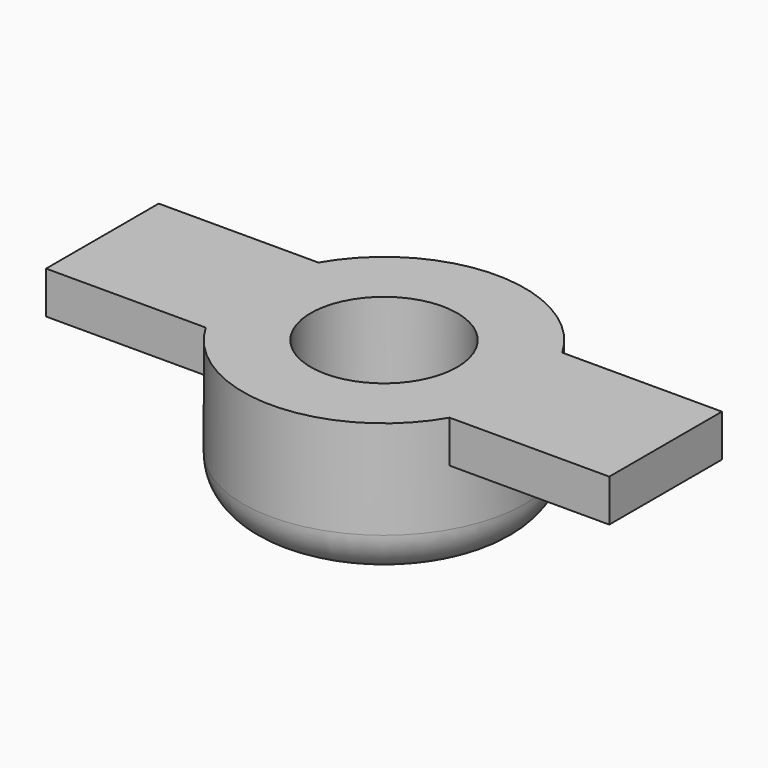
from build123d import *

# Parameters (mm, degrees)
CONE001_W         = 10
CONE001_H         = 10
FILLET002_R       = 3
BOX007_W          = 10.4
BOX007_H          = 5.2
BOX007_DEPTH      = 5.2
BOX008_W          = 40
BOX008_H          = 10
BOX008_DEPTH      = 3
CYLINDER011_R     = 5.2
CYLINDER011_DEPTH = 10


with BuildPart() as part:
    # Cone001 → Cone001 (revolve)
    with BuildSketch(Plane.XZ):
        with Locations((5, 5)):
            Rectangle(CONE001_W, CONE001_H)
    revolve(axis=Axis((0, 0, 0), (0, 0, 1)))

    # Fillet002
    fillet002_edges = [part.edges().sort_by_distance(p)[0] for p in [
        (-10, 0, 0),
    ]]
    fillet(fillet002_edges, radius=FILLET002_R)

    # Box007 → Box007 (cut)
    with BuildSketch(Plane(origin=(-5.2, -5.2, 0), x_dir=(1, 0, 0), z_dir=(0, 0, 1))):
        with Locations((5.2, 2.6)):
            Rectangle(BOX007_W, BOX007_H)
    extrude(amount=BOX007_DEPTH, mode=Mode.SUBTRACT)

    # Box008 → Box008 (join)
    with BuildSketch(Plane(origin=(-20, -5, 7), x_dir=(1, 0, 0), z_dir=(0, 0, 1))):
        with Locations((20, 5)):
            Rectangle(BOX008_W, BOX008_H)
    extrude(amount=BOX008_DEPTH)

    # Cylinder011 → Cylinder011 (cut)
    with BuildSketch(Plane.XY):
        Circle(CYLINDER011_R)
    extrude(amount=CYLINDER011_DEPTH, mode=Mode.SUBTRACT)


with BuildPart() as part_1:
    # Body006 placement: moved
    add(part.part.moved(Location((1, -43, -10))))


solid = part_1.part
